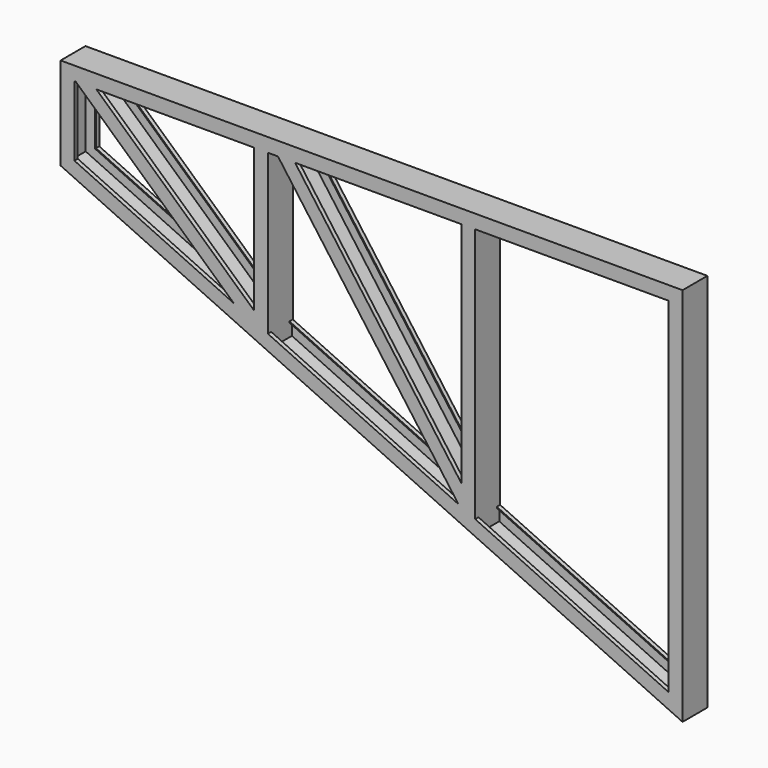
from build123d import *

# Parameters (mm, degrees)
F6_W     = 90
F6_H     = 203.898897171
F7_DEPTH = 1800.001


with BuildPart() as f2:
    # F2: sweep along a path in F0
    with BuildLine(Plane.XZ) as f2_path:
        Line((0, 0), (0, 1100))
        Line((0, 1100), (-1800, 1100))
        Line((-1800, 1100), (-1800, 832))
        Line((-1800, 832), (0, 0))
    # F1 (on Top) → F2 (sweep)
    with BuildSketch(Plane.XY):
        Polygon((0, -45), (0, 0), (0, 45), (-40, 45), (-40, 33), (-37, 33), (-37, 42), (-3, 42), (-3, 0), (-3, -42), (-37, -42), (-37, -33), (-40, -33), (-40, -45), align=None)
    sweep(path=f2_path.line, transition=Transition.RIGHT)

    # F5: sweep along a path in F3
    with BuildLine(Plane.XZ) as f5_path:
        Line((-600, 1100), (-600, 277.3333333333))
        Line((-600, 277.3333333333), (-1200, 1100))
        Line((-1200, 1100), (-1200, 554.6666666667))
        Line((-1200, 554.6666666667), (-1800, 1100))
    # F4 (on face) → F5 (sweep)
    with BuildSketch(Plane.XY.offset(1100)):
        Polygon((-600, -45), (-600, 0), (-600, 45), (-640, 45), (-640, 33), (-637, 33), (-637, 42), (-603, 42), (-603, 0), (-603, -42), (-637, -42), (-637, -33), (-640, -33), (-640, -45), align=None)
    sweep(path=f5_path.line, transition=Transition.RIGHT)

    # F6 (on face) → F7 (cut, through all)
    with BuildSketch(Plane.YZ):
        with Locations((0, 1201.9494485855)):
            Rectangle(F6_W, F6_H)
    extrude(amount=-F7_DEPTH, mode=Mode.SUBTRACT)


solid = f2.part
